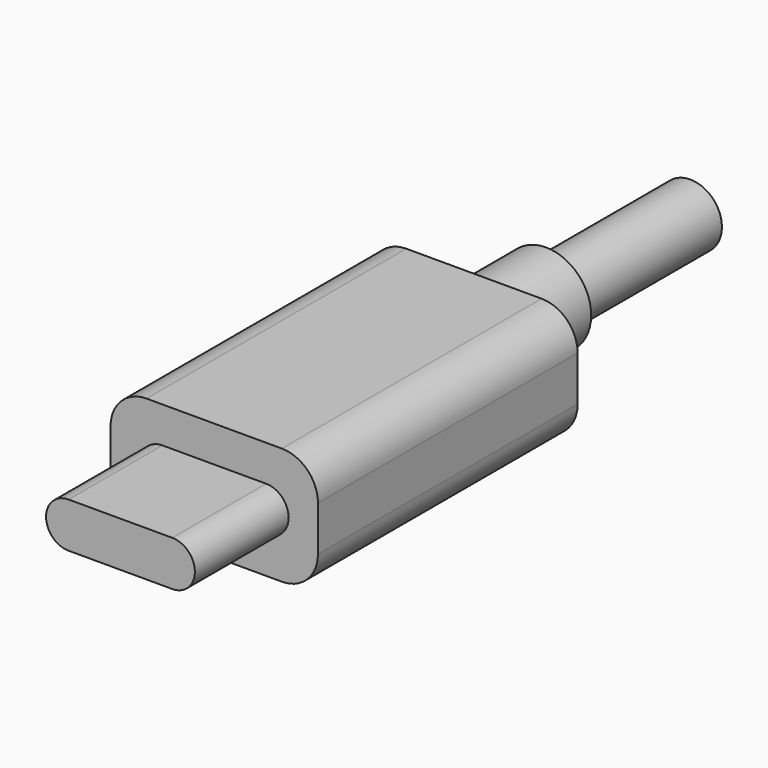
from build123d import *

# Parameters (mm, degrees)
PAD_DEPTH    = 6.5
SKETCH001_W  = 11.5
SKETCH001_H  = 6.5
PAD001_DEPTH = 18
FILLET_R     = 2
SKETCH002_R  = 2.5
PAD002_DEPTH = 5
SKETCH003_R  = 1.75
PAD003_DEPTH = 10


with BuildPart() as part:
    # Sketch → Pad (new body)
    with BuildSketch(Plane.XZ):
        with BuildLine():
            ThreePointArc((-2.875, 1.25), (-4.125, 0), (-2.875, -1.25))
            Line((-2.875, -1.25), (2.875, -1.25))
            ThreePointArc((2.875, -1.25), (4.125, 0), (2.875, 1.25))
            Line((2.875, 1.25), (-2.875, 1.25))
        make_face()
    extrude(amount=PAD_DEPTH)

    # Sketch001 → Pad001 (join)
    with BuildSketch(Plane.XZ):
        Rectangle(SKETCH001_W, SKETCH001_H)
    extrude(amount=-PAD001_DEPTH)

    # Fillet
    fillet_edges = [part.edges().sort_by_distance(p)[0] for p in [
        (-5.75, 9, 3.25),
        (5.75, 9, 3.25),
        (5.75, 9, -3.25),
        (-5.75, 9, -3.25),
    ]]
    fillet(fillet_edges, radius=FILLET_R)

    # Sketch002 (on Face5 of Fillet) → Pad002 (join)
    with BuildSketch(Plane(origin=(0, 18, 0), x_dir=(1, 0, 0), z_dir=(0, 1, 0))):
        Circle(SKETCH002_R)
    extrude(amount=PAD002_DEPTH)

    # Sketch003 (on Face17 of Pad002) → Pad003 (join)
    with BuildSketch(Plane(origin=(0, 23, 0), x_dir=(1, 0, 0), z_dir=(0, 1, 0))):
        Circle(SKETCH003_R)
    extrude(amount=PAD003_DEPTH)


solid = part.part
